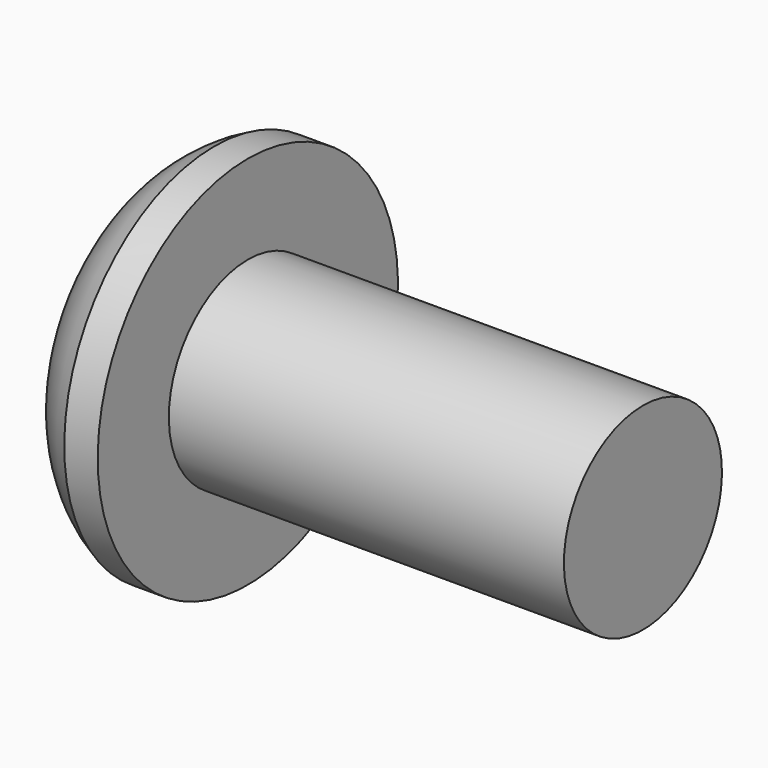
from build123d import *

# Parameters (mm, degrees)
F3_DEPTH = 2


with BuildPart() as f1:
    # F0 (on Front) → F1 (revolve)
    with BuildSketch(Plane.XZ):
        with BuildLine():
            Line((-10.2, 0), (0, 0))
            Line((0, 0), (0, 2))
            Line((0, 2), (-8, 2))
            Line((-8, 2), (-8, 3.8))
            Line((-8, 3.8), (-8.677624, 3.8))
            ThreePointArc((-8.677624, 3.8), (-9.72023, 2.954011), (-10.2, 1.7))
            Line((-10.2, 1.7), (-10.2, 0))
        make_face()
    revolve(axis=Axis((-5.1, 0, 0), (1, 0, 0)))

    # F2 (on face) → F3 (cut)
    with BuildSketch(Plane(origin=(-10.2, 0, 0), x_dir=(0, -1, 0), z_dir=(-1, 0, 0))):
        Polygon((0.721688, 1.25), (-0.721688, 1.25), (-1.443376, 0), (-0.721688, -1.25), (0.721688, -1.25), (1.443376, 0), align=None)
    extrude(amount=-F3_DEPTH, mode=Mode.SUBTRACT)


solid = f1.part
